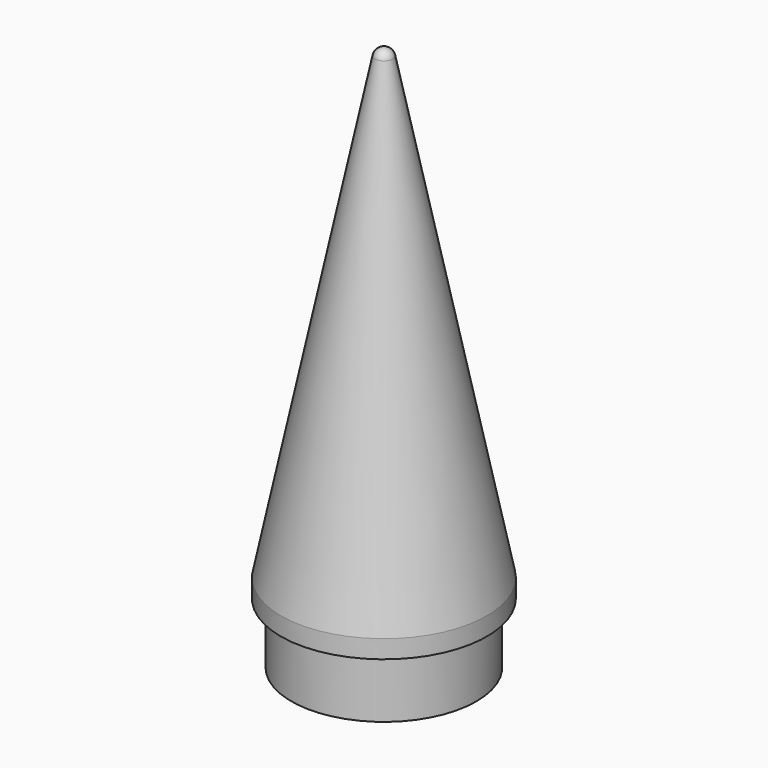
from build123d import *

# Parameters (mm, degrees)
F1_R     = 15.25
F2_DEPTH = 10


with BuildPart() as f2:
    # F1 (on offset) → F2 (new body)
    with BuildSketch(Plane.XY.offset(337)):
        Circle(F1_R)
    extrude(amount=-F2_DEPTH)

    # F4 (on Front) → F5 (revolve)
    with BuildSketch(Plane.XZ):
        with BuildLine():
            ThreePointArc((0, 417), (-0.9482587677, 416.6622415022), (-1.4694742595, 415.801073746))
            ThreePointArc((-1.4694742595, 415.801073746), (-1.1622415022, 414.5517412323), (0, 414))
            Line((0, 414), (0, 417))
        make_face()
        with BuildLine():
            ThreePointArc((0, 414), (-1.1622415022, 414.5517412323), (-1.4694742595, 415.801073746))
            Line((-1.4694742595, 415.801073746), (-17, 340))
            Line((-17, 340), (-17, 337))
            Line((-17, 337), (0, 337))
            Line((0, 337), (0, 414))
        make_face()
    revolve(axis=Axis((0, 0, 452.3533742838), (0, 0, 1)))


solid = f2.part
